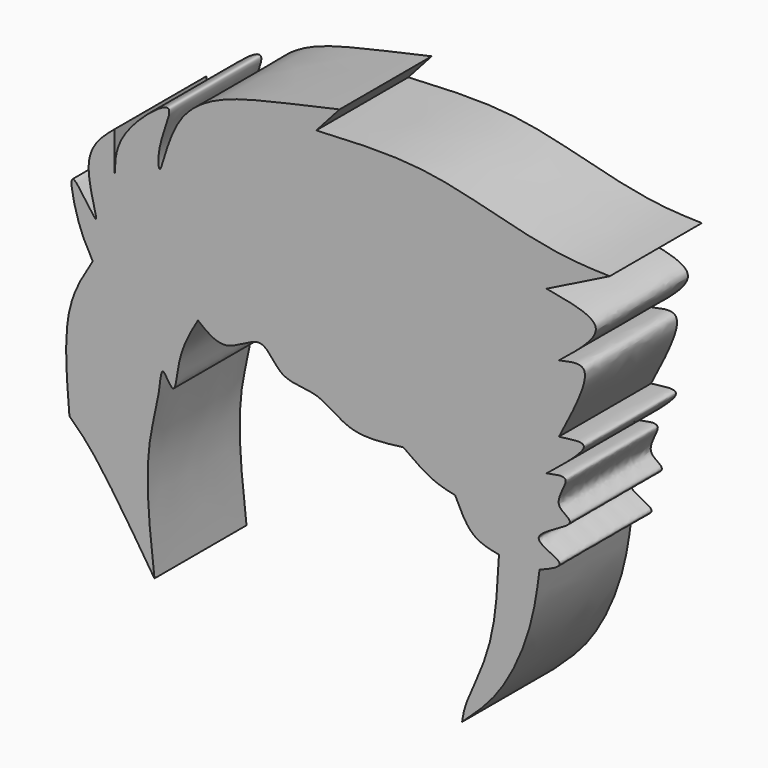
from build123d import *

# Parameters (mm, degrees)
F1_DEPTH = 7.874


with BuildPart() as f1:
    # F0 (on Front) → F1 (new body)
    with BuildSketch(Plane.XZ):
        with BuildLine():
            add(Edge.make_bspline(
                [(-99.3655622005, 25.3736991435), (-99.7186079425, 25.9849450713), (-100.4095720668, 27.1812461651), (-101.2930539888, 31.3882195194), (-98.2945495239, 26.2409821445), (-100.4476592805, 31.6469396337), (-98.7384615482, 33.0838480133), (-97.864203155, 33.8188298047)],
                knots=[0, 0, 0, 0, 0.1919575518, 0.3756900762, 0.5647603496, 0.7773739631, 1, 1, 1, 1], degree=3))
            add(Edge.make_bspline(
                [(-99.3655622005, 25.3736991435), (-100.0132753914, 24.3229709329), (-101.4980187016, 21.9144022893), (-101.1544449609, 17.8259362004), (-100.9607538581, 15.5210467055)],
                knots=[0, 0, 0, 0, 0.4362459062, 1, 1, 1, 1], degree=3))
            add(Edge.make_bspline(
                [(-100.9607538581, 15.5210467055), (-100.4740620901, 15.0628732588), (-99.1131697527, 13.7817241335), (-96.6958310505, 10.0415276176), (-95.1429978013, 7.6389261521)],
                knots=[0, 0, 0, 0, 0.3576269442, 1, 1, 1, 1], degree=3))
            add(Edge.make_bspline(
                [(-95.1429978013, 7.6389261521), (-95.3334632568, 9.2968706401), (-95.6882082283, 12.3848188919), (-95.5715488401, 15.9971678292), (-94.7715010539, 18.7803615904), (-94.6828212472, 20.9236480055), (-93.6839967088, 18.6650899521), (-93.573093741, 21.766880784), (-92.6720992878, 23.295456774), (-92.1650007367, 24.1557713598)],
                knots=[0, 0, 0, 0, 0.1980889695, 0.3689438889, 0.5296574507, 0.6270283815, 0.7176364267, 0.8410798663, 1, 1, 1, 1], degree=3))
            add(Edge.make_bspline(
                [(-92.1650007367, 24.1557713598), (-91.5416413772, 23.6599942204), (-90.2540075189, 22.6358988555), (-87.721873428, 25.0116694584), (-86.6092124754, 22.2729142516), (-83.8873526604, 22.6300329458), (-81.8408712751, 20.6000784457), (-79.4267475279, 20.9104458975), (-78.1198590994, 21.0784636438)],
                knots=[0, 0, 0, 0, 0.1542239042, 0.3185705288, 0.4675738109, 0.6302852175, 0.7998545138, 1, 1, 1, 1], degree=3))
            add(Edge.make_bspline(
                [(-78.1198590994, 21.0784636438), (-77.4540540867, 20.5943651335), (-76.2298116593, 19.7042337527), (-75.0893393023, 19.4558481976), (-74.5691135526, 19.3425472826)],
                knots=[0, 0, 0, 0, 0.5438506277, 1, 1, 1, 1], degree=3))
            add(Edge.make_bspline(
                [(-74.5691135526, 19.3425472826), (-74.2093877038, 18.5736159104), (-73.5301978659, 17.1218148349), (-72.197544255, 16.861237203), (-71.5707167983, 16.7386718094)],
                knots=[0, 0, 0, 0, 0.5296396216, 1, 1, 1, 1], degree=3))
            add(Edge.make_bspline(
                [(-71.5707167983, 16.7386718094), (-71.6510979271, 15.1790395667), (-71.7995646494, 12.2983449261), (-72.7956620423, 9.2642161377), (-73.9001602017, 7.0672689467), (-74.0375542083, 6.2010264767), (-74.0942880511, 5.8433306403)],
                knots=[0, 0, 0, 0, 0.3239754008, 0.5983937592, 0.8341655077, 1, 1, 1, 1], degree=3))
            add(Edge.make_bspline(
                [(-74.0942880511, 5.8433306403), (-73.2162015208, 6.6436990205), (-71.3350039849, 8.3583945232), (-69.3006153942, 12.8459435708), (-68.9571976772, 15.4859221523), (-68.7942355871, 16.7386718094)],
                knots=[0, 0, 0, 0, 0.315057671, 0.6749741555, 1, 1, 1, 1], degree=3))
            add(Edge.make_bspline(
                [(-68.3062523603, 22.7025859058), (-67.6845067557, 22.8372767723), (-66.3539844307, 23.1255123521), (-68.1717779682, 20.8889096751), (-65.5907157134, 20.2650706615), (-70.3923916114, 18.5894592597), (-66.4833691472, 17.6418325194), (-68.0327508594, 17.0362844604), (-68.7942355871, 16.7386718094)],
                knots=[0, 0, 0, 0, 0.1479862311, 0.3166873762, 0.4533961697, 0.6655711315, 0.8356360645, 1, 1, 1, 1], degree=3))
            add(Edge.make_bspline(
                [(-67.4617365003, 25.1860301942), (-66.6648418163, 25.3026320171), (-64.7130117494, 25.5882242648), (-66.970470568, 23.7753176253), (-68.3062523603, 22.7025859058)],
                knots=[0, 0, 0, 0, 0.4082807707, 1, 1, 1, 1], degree=3))
            add(Edge.make_bspline(
                [(-67.4617365003, 29.7839324921), (-66.7334260158, 29.9504127404), (-64.7648289171, 30.400402876), (-66.4193371258, 27.2014714558), (-67.4617365003, 25.1860301942)],
                knots=[0, 0, 0, 0, 0.3699642171, 1, 1, 1, 1], degree=3))
            add(Edge.make_bspline(
                [(-68.3062523603, 33.8188298047), (-66.7143672404, 33.5369644734), (-63.48577882, 32.9652981308), (-66.1242086744, 30.8541564251), (-67.4617365003, 29.7839324921)],
                knots=[0, 0, 0, 0, 0.4930591679, 1, 1, 1, 1], degree=3))
            add(Edge.make_bspline(
                [(-68.3062523603, 33.8188298047), (-66.8674508731, 34.5382293065), (-65.4286493858, 35.2576288084), (-63.9898478985, 35.9770283103)],
                knots=[0, 0, 0, 0, 4.8258852316, 4.8258852316, 4.8258852316, 4.8258852316], degree=3))
            add(Edge.make_bspline(
                [(-84.0704888105, 38.2290631533), (-81.6349296493, 38.3565872575), (-76.9929966741, 38.5996354881), (-71.3545323935, 36.9855078159), (-67.0809444322, 36.0663838719), (-64.9569122247, 36.0049836249), (-63.9898478985, 35.9770283103)],
                knots=[0, 0, 0, 0, 0.3000763537, 0.5719156174, 0.8050946998, 1, 1, 1, 1], degree=3))
            add(Edge.make_bspline(
                [(-84.0704888105, 38.2290631533), (-83.538758258, 38.8233500222), (-83.0070277055, 39.4176368912), (-82.475297153, 40.0119237602)],
                knots=[0, 0, 0, 0, 2.3923269776, 2.3923269776, 2.3923269776, 2.3923269776], degree=3))
            add(Edge.make_bspline(
                [(-97.864203155, 31.0976207256), (-97.8417216214, 31.9435399045), (-97.7931679915, 33.770481402), (-93.1469084996, 37.6229334342), (-95.0133940493, 33.9372070268), (-94.7798622132, 31.237248278), (-93.8507090221, 37.301266744), (-87.3718141015, 38.9357050974), (-84.0399671356, 39.6680207258), (-82.475297153, 40.0119237602)],
                knots=[0, 0, 0, 0, 0.127545699, 0.2754619309, 0.3955842031, 0.4856478387, 0.6349670858, 0.8285767476, 1, 1, 1, 1], degree=3))
            add(Edge.make_bspline(
                [(-97.864203155, 31.0976207256), (-97.864203155, 32.0046904186), (-97.864203155, 32.9117601116), (-97.864203155, 33.8188298047)],
                knots=[0, 0, 0, 0, 2.721209079, 2.721209079, 2.721209079, 2.721209079], degree=3))
        make_face()
    extrude(amount=F1_DEPTH)


solid = f1.part
